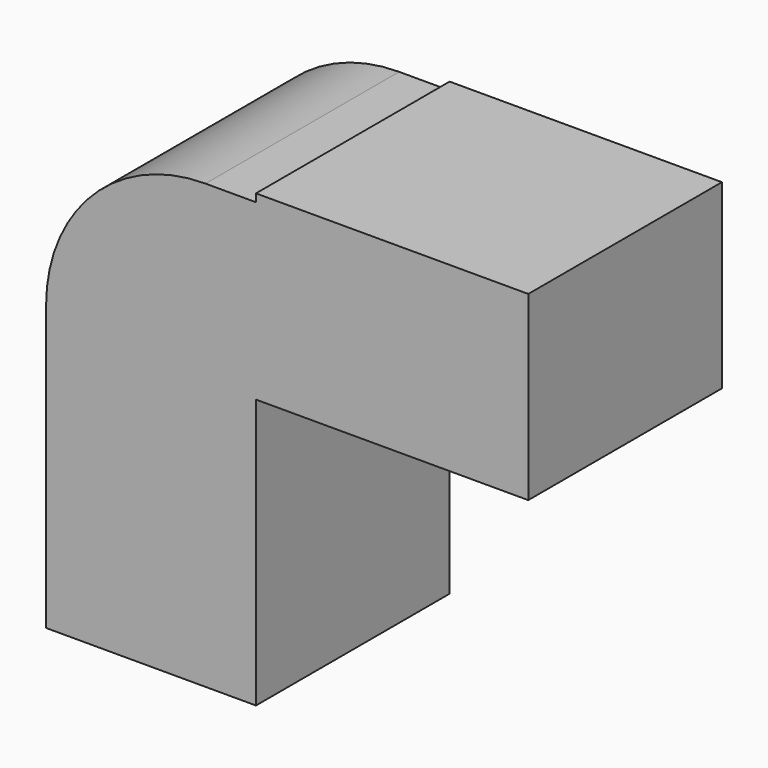
from build123d import *

# Parameters (mm, degrees)
F1_DEPTH = 25.4


with BuildPart() as f1:
    # F0 (on Front) → F1 (new body)
    with BuildSketch(Plane.XZ):
        Polygon((24.768617, 52.84198), (24.768617, 40.963624), (53.343617, 40.963624), (53.343617, 60.013624), (24.768617, 60.013624), (24.768617, 59.19198), align=None)
        with BuildLine():
            Line((9.094541, 12.7), (24.768617, 12.7))
            Line((24.768617, 12.7), (24.768617, 40.963624))
            Line((24.768617, 40.963624), (24.768617, 52.84198))
            Line((24.768617, 52.84198), (19.470537, 52.84198))
            ThreePointArc((19.470537, 52.84198), (12.133599, 49.802921), (9.094541, 42.465984))
            Line((9.094541, 42.465984), (9.094541, 12.7))
        make_face()
        with BuildLine():
            Line((2.744541, 12.7), (9.094541, 12.7))
            Line((9.094541, 12.7), (9.094541, 42.465984))
            ThreePointArc((9.094541, 42.465984), (12.133599, 49.802921), (19.470537, 52.84198))
            Line((19.470537, 52.84198), (24.768617, 52.84198))
            Line((24.768617, 52.84198), (24.768617, 59.19198))
            Line((24.768617, 59.19198), (19.470537, 59.19198))
            ThreePointArc((19.470537, 59.19198), (7.643471, 54.293049), (2.744541, 42.465984))
            Line((2.744541, 42.465984), (2.744541, 12.7))
        make_face()
    extrude(amount=F1_DEPTH)


solid = f1.part
